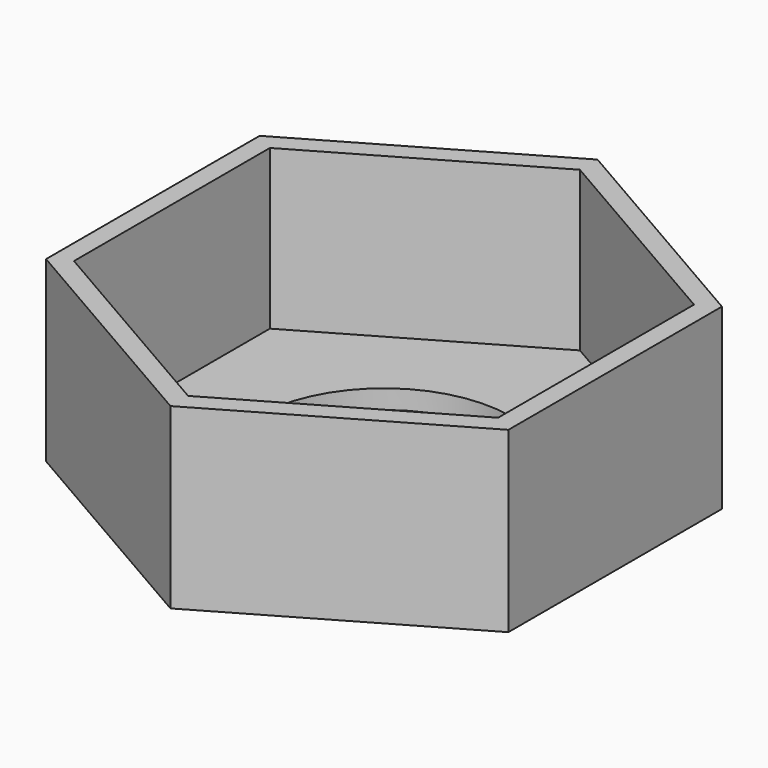
from build123d import *

# Parameters (mm, degrees)
F0_R     = 3
F1_DEPTH = 4.2
F2_T     = -0.45
F3_DEPTH = 0.6


with BuildPart() as f1:
    # F0 (on Top) → F1 (new body)
    with BuildSketch(Plane.XY):
        Polygon((0, -6.2931179342), (5.45, -3.1465589671), (5.45, 3.1465589671), (0, 6.2931179342), (-5.45, 3.1465589671), (-5.45, -3.1465589671), align=None)
        Circle(F0_R, mode=Mode.SUBTRACT)
        Circle(F0_R)
    extrude(amount=F1_DEPTH)

    # F2
    f2_openings = [f1.faces().sort_by_distance(p)[0] for p in [
        (0, 0, 4.2),
    ]]
    offset(amount=F2_T, openings=f2_openings)

    # F0 (on Top) → F3 (cut)
    with BuildSketch(Plane.XY):
        Circle(F0_R)
    extrude(amount=F3_DEPTH, mode=Mode.SUBTRACT)


solid = f1.part
